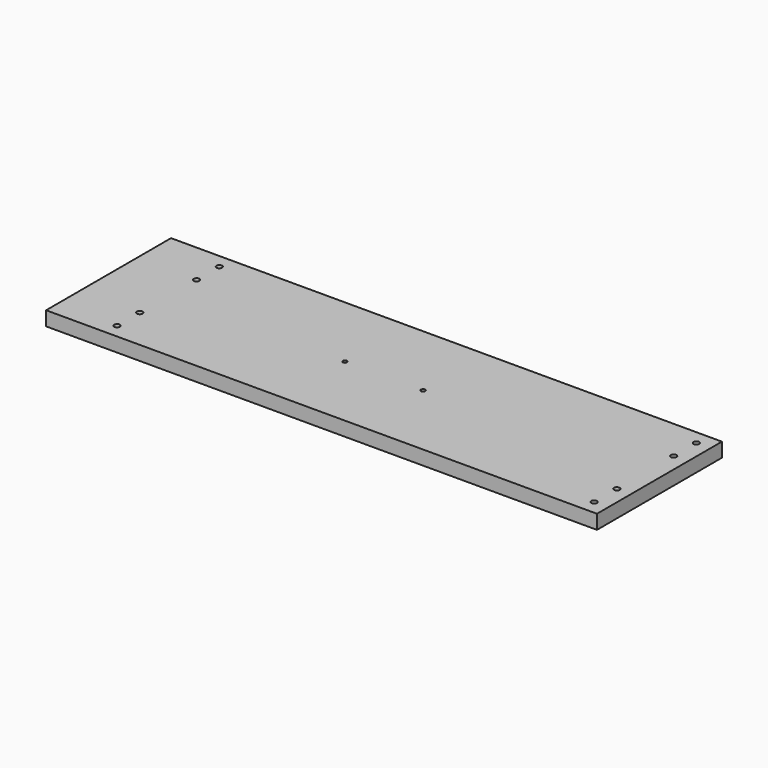
from build123d import *

# Parameters (mm, degrees)
F0_W     = 388
F0_H     = 110
F0_R     = 2
F0_R_2   = 1.5
F1_DEPTH = 10
F2_R     = 2
F3_DEPTH = 35
F4_R     = 2
F5_DEPTH = 35


with BuildPart() as f1:
    # F0 (on Top) → F1 (new body)
    with BuildSketch(Plane.XY):
        Rectangle(F0_W, F0_H)
        with Locations((-152, -45)):
            Circle(F0_R, mode=Mode.SUBTRACT)
        with Locations((-152, -25)):
            Circle(F0_R, mode=Mode.SUBTRACT)
        with Locations((184, -45)):
            Circle(F0_R, mode=Mode.SUBTRACT)
        with Locations((184, -25)):
            Circle(F0_R, mode=Mode.SUBTRACT)
        with Locations((-152, 25)):
            Circle(F0_R, mode=Mode.SUBTRACT)
        with Locations((-27.5, 0)):
            Circle(F0_R_2, mode=Mode.SUBTRACT)
        with Locations((-152, 45)):
            Circle(F0_R, mode=Mode.SUBTRACT)
        with Locations((27.5, 0)):
            Circle(F0_R_2, mode=Mode.SUBTRACT)
        with Locations((184, 25)):
            Circle(F0_R, mode=Mode.SUBTRACT)
        with Locations((184, 45)):
            Circle(F0_R, mode=Mode.SUBTRACT)
    extrude(amount=F1_DEPTH)

    # F2 (on face) → F3 (cut)
    with BuildSketch(Plane(origin=(0, 55, 0), x_dir=(-1, 0, 0), z_dir=(0, 1, 0))):
        with Locations((-144, 5)):
            Circle(F2_R)
        with Locations((134, 5)):
            Circle(F2_R)
    extrude(amount=-F3_DEPTH, mode=Mode.SUBTRACT)

    # F4 (on face) → F5 (cut)
    with BuildSketch(Plane(origin=(-194, 0, 0), x_dir=(0, -1, 0), z_dir=(-1, 0, 0))):
        with Locations((-35, 5)):
            Circle(F4_R)
        with Locations((35, 5)):
            Circle(F4_R)
    extrude(amount=-F5_DEPTH, mode=Mode.SUBTRACT)


solid = f1.part
